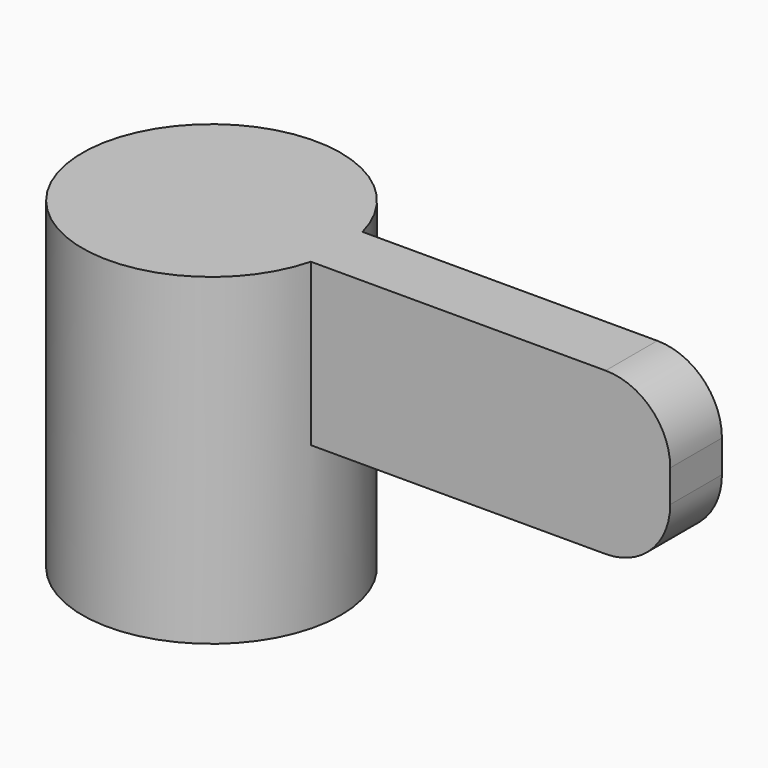
from build123d import *

# Parameters (mm, degrees)
F0_R     = 4
F1_DEPTH = 10
F2_W     = 15
F2_H     = 2
F3_DEPTH = 5
F4_R     = 2


with BuildPart() as f1:
    # F0 (on Top) → F1 (new body)
    with BuildSketch(Plane.XY):
        Circle(F0_R)
    extrude(amount=F1_DEPTH)

    # F2 (on face) → F3 (join)
    with BuildSketch(Plane.XY.offset(10)):
        with Locations((7.5, 0)):
            Rectangle(F2_W, F2_H)
    extrude(amount=-F3_DEPTH)

    # F4
    f4_edges = [f1.edges().sort_by_distance(p)[0] for p in [
        (15, 0, 10),
        (15, 0, 5),
    ]]
    fillet(f4_edges, radius=F4_R)


solid = f1.part
